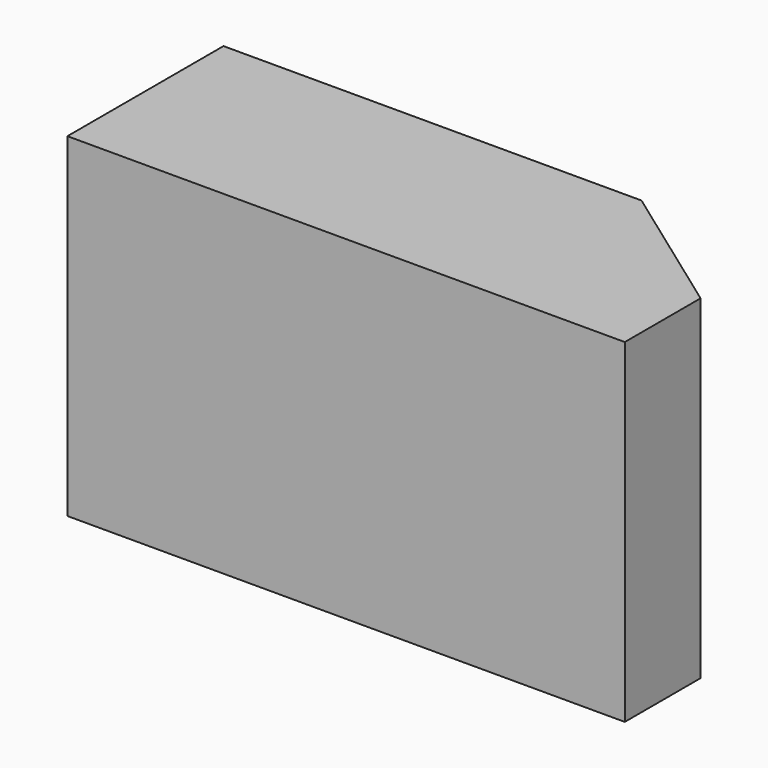
from build123d import *

# Parameters (mm, degrees)
PAD_DEPTH = 30


with BuildPart() as part:
    # Sketch → Pad (new body, symmetric)
    with BuildSketch(Plane.XY):
        Polygon((0, 0), (-100, 0), (-100, 35), (-25, 35), (0, 17), align=None)
    extrude(amount=PAD_DEPTH, both=True)


solid = part.part
